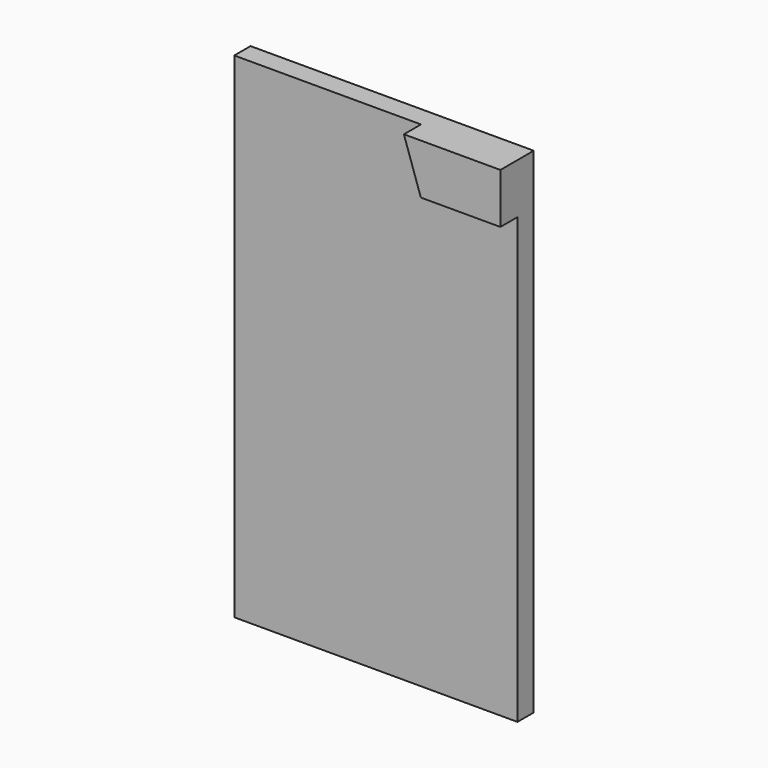
from build123d import *

# Parameters (mm, degrees)
F1_W     = 121.155024
F1_H     = 211.606294
F2_DEPTH = 8.689428
F4_DEPTH = 9.133538


with BuildPart() as f2:
    # F1 (on face) → F2 (new body)
    with BuildSketch(Plane.XZ):
        Rectangle(F1_W, F1_H)
    extrude(amount=F2_DEPTH)

    # F3 (on face) → F4 (join)
    with BuildSketch(Plane.XZ.offset(8.689428)):
        Polygon((60.577512, 105.803147), (19.296288, 105.803147), (26.541162, 84.326059), (60.577512, 84.326059), align=None)
    extrude(amount=F4_DEPTH)


solid = f2.part
